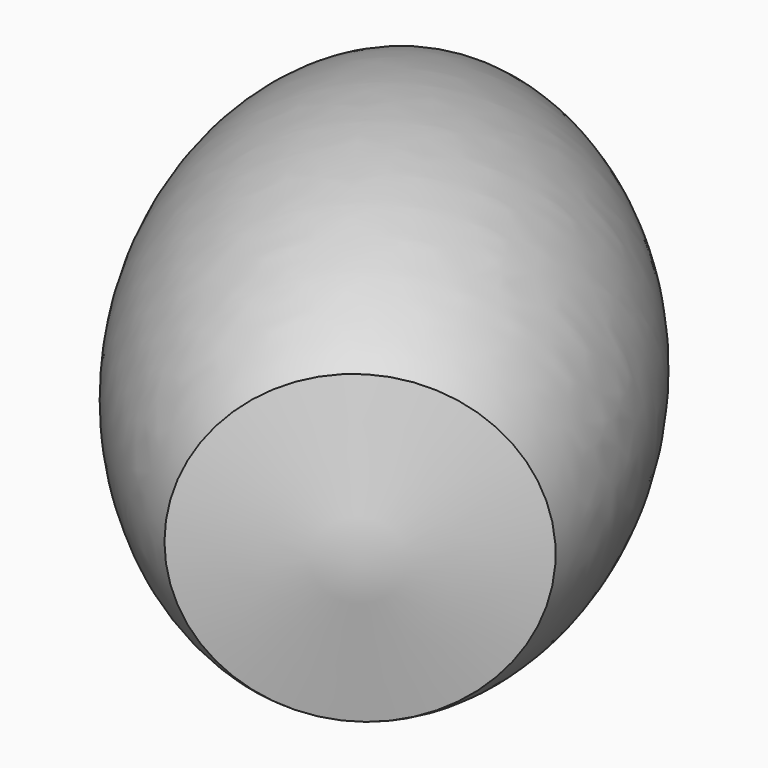
from build123d import *


with BuildPart() as f1:
    # F0 (on Top) → F1 (revolve)
    with BuildSketch(Plane.XY):
        with BuildLine():
            Line((10.001251474, 4.5347283594), (-21.0585333407, 49.2608174682))
            ThreePointArc((-21.0585333407, 49.2608174682), (-19.2981467092, 20.8817954924), (0, 0))
            Line((0, 0), (10.001251474, 4.5347283594))
        make_face()
    revolve(axis=Axis((-5.5286409333, 26.8977729138, 0), (-0.5703958183, 0.8213699596, 0)))


solid = f1.part
